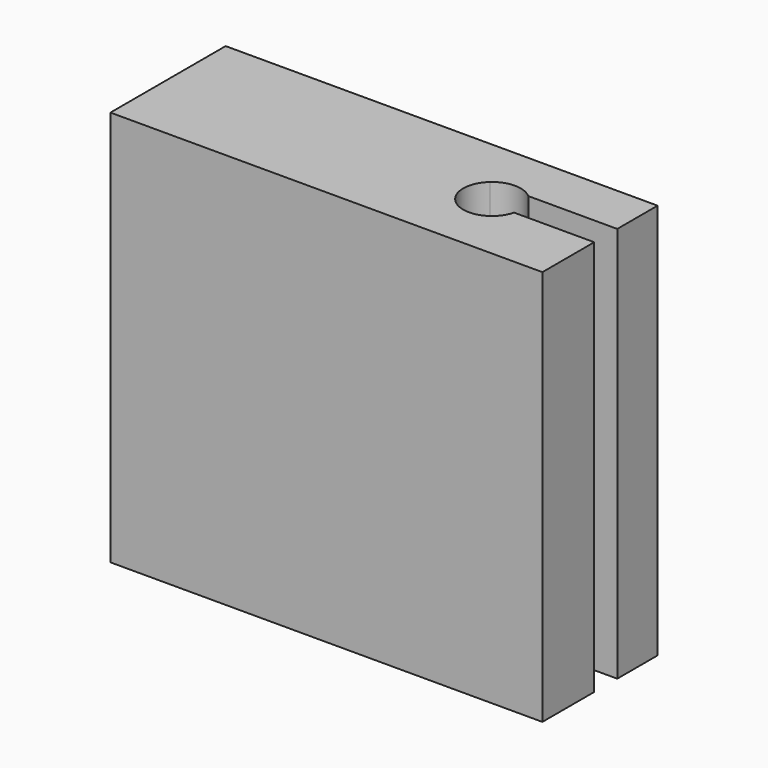
from build123d import *

# Parameters (mm, degrees)
F0_W     = 60
F0_H     = 55
F1_DEPTH = 20
F3_DEPTH = 55


with BuildPart() as f1:
    # F0 (on Front) → F1 (new body)
    with BuildSketch(Plane.XZ):
        Rectangle(F0_W, F0_H)
    extrude(amount=F1_DEPTH)

    # F2 (on face) → F3 (cut, through all)
    with BuildSketch(Plane(origin=(0, 0, -27.5), x_dir=(1, 0, 0), z_dir=(0, 0, -1))):
        with BuildLine():
            ThreePointArc((18.872983, 11), (18.968119, 10.504017), (19, 10))
            ThreePointArc((19, 10), (18.645751, 8.354249), (17.645751, 7))
            Line((17.645751, 7), (30, 7))
            Line((30, 7), (30, 11))
            Line((30, 11), (18.872983, 11))
        make_face()
        with BuildLine():
            ThreePointArc((12.354249, 7), (15, 6), (17.645751, 7))
            Line((17.645751, 7), (12.354249, 7))
        make_face()
        with BuildLine():
            ThreePointArc((17.645751, 7), (18.645751, 8.354249), (19, 10))
            ThreePointArc((19, 10), (18.968119, 10.504017), (18.872983, 11))
            ThreePointArc((18.872983, 11), (12.907986, 13.409322), (12.354249, 7))
            Line((12.354249, 7), (17.645751, 7))
        make_face()
    extrude(amount=-F3_DEPTH, mode=Mode.SUBTRACT)


solid = f1.part
